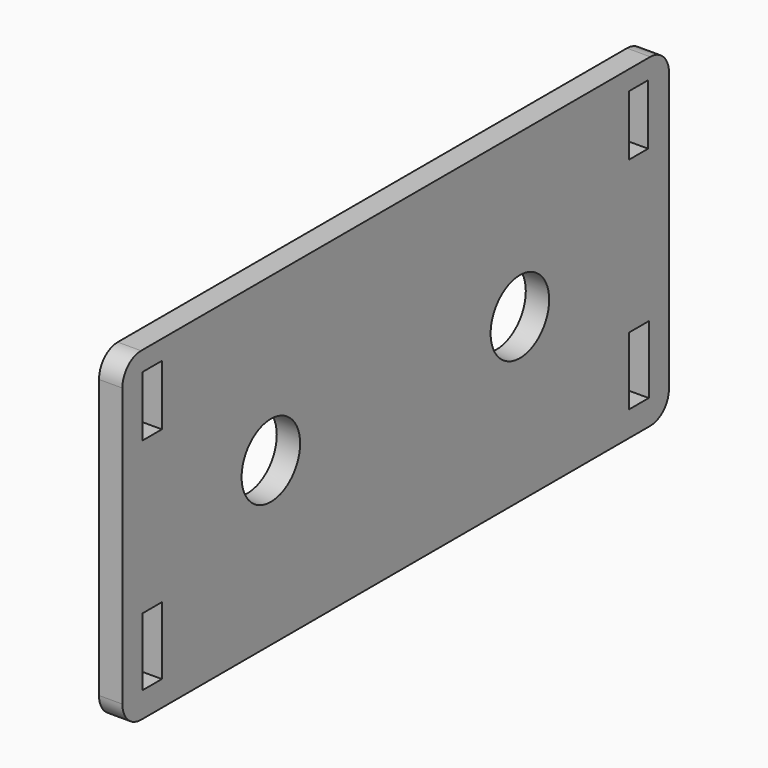
from build123d import *

# Parameters (mm, degrees)
F0_W     = 87.8
F0_H     = 41.75
F0_W_2   = 3.1
F0_H_2   = 8.7
F0_W_3   = 3.2
F0_R     = 4.7
F0_H_3   = 7.75
F1_DEPTH = 3
F2_R     = 3


with BuildPart() as f1:
    # F0 (on Right) → F1 (new body)
    with BuildSketch(Plane.YZ):
        with Locations((0.05, 0)):
            Rectangle(F0_W, F0_H)
        with Locations((-39.05, -13.275)):
            Rectangle(F0_W_2, F0_H_2, mode=Mode.SUBTRACT)
        with Locations((39.1, -13.275)):
            Rectangle(F0_W_3, F0_H_2, mode=Mode.SUBTRACT)
        with Locations((-20, 0)):
            Circle(F0_R, mode=Mode.SUBTRACT)
        with Locations((-39.05, 14.5)):
            Rectangle(F0_W_2, F0_H_3, mode=Mode.SUBTRACT)
        with Locations((20, 0)):
            Circle(F0_R, mode=Mode.SUBTRACT)
        with Locations((39.05, 14.5)):
            Rectangle(F0_W_2, F0_H_3, mode=Mode.SUBTRACT)
    extrude(amount=F1_DEPTH)

    # F2
    f2_edges = [f1.edges().sort_by_distance(p)[0] for p in [
        (1.5, -43.85, 20.875),
        (1.5, -43.85, -20.875),
        (1.5, 43.95, 20.875),
        (1.5, 43.95, -20.875),
    ]]
    fillet(f2_edges, radius=F2_R)


solid = f1.part
